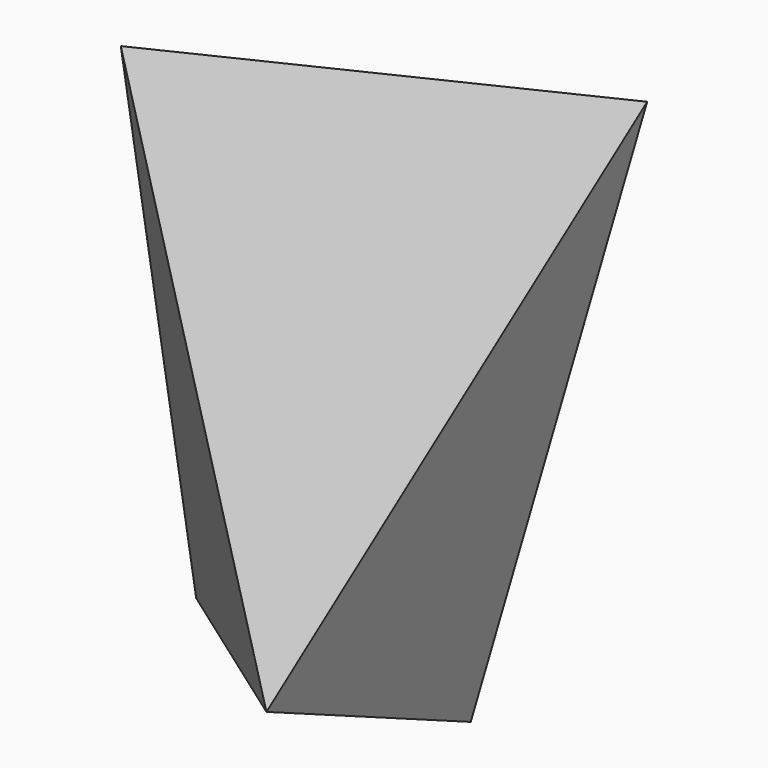
from build123d import *


with BuildPart() as f3:
    # F0 (on Front) → F3 section 0
    with BuildSketch(Plane.XZ, mode=Mode.PRIVATE) as f3_s0:
        Polygon((48.770491, 58.381151), (-51.35246, 35.143442), (-37.0082, -52.643444), (-4.303279, 38.012296), (15.20492, -56.372955), align=None)
    loft([f3_s0.sketch, Vertex(16.35246, -50, -33.995904)])


solid = f3.part
